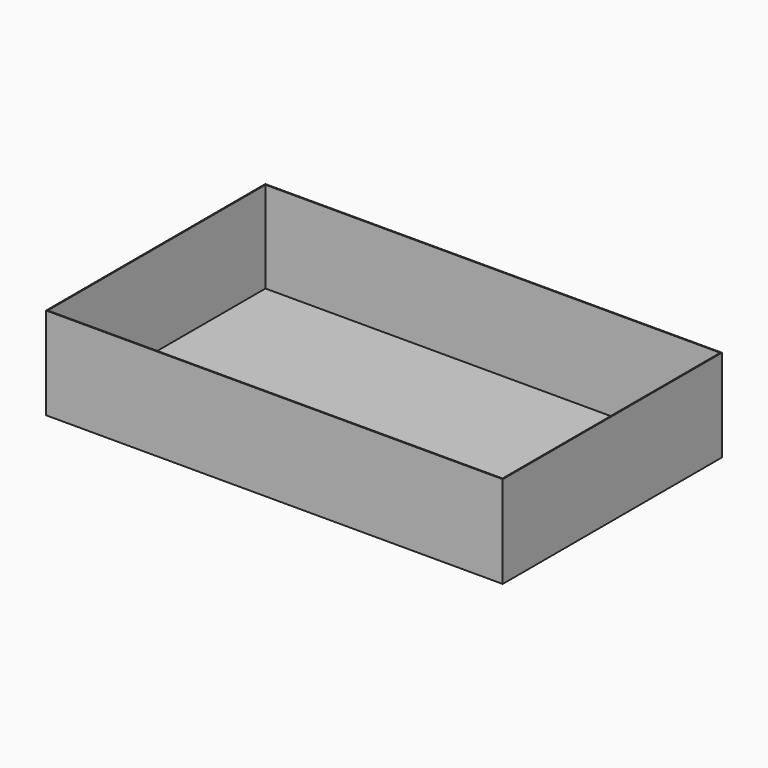
from build123d import *

# Parameters (mm, degrees)
F0_W     = 500
F0_H     = 300
F1_DEPTH = 1
F2_W     = 1
F2_H     = 1
F2_W_2   = 498
F2_H_2   = 298
F3_DEPTH = 100


with BuildPart() as f1:
    # F0 (on Top) → F1 (new body)
    with BuildSketch(Plane.XY):
        Rectangle(F0_W, F0_H)
    extrude(amount=F1_DEPTH)

    # F2 (on face) → F3 (join)
    with BuildSketch(Plane.XY.offset(1)):
        with Locations((-249.5, 149.5)):
            Rectangle(F2_W, F2_H)
        with Locations((0, 149.5)):
            Rectangle(F2_W_2, F2_H)
        with Locations((-249.5, 0)):
            Rectangle(F2_W, F2_H_2)
        with Locations((249.5, 149.5)):
            Rectangle(F2_W, F2_H)
        with Locations((-249.5, -149.5)):
            Rectangle(F2_W, F2_H)
        with Locations((0, -149.5)):
            Rectangle(F2_W_2, F2_H)
        with Locations((249.5, 0)):
            Rectangle(F2_W, F2_H_2)
        with Locations((249.5, -149.5)):
            Rectangle(F2_W, F2_H)
    extrude(amount=F3_DEPTH)


solid = f1.part
